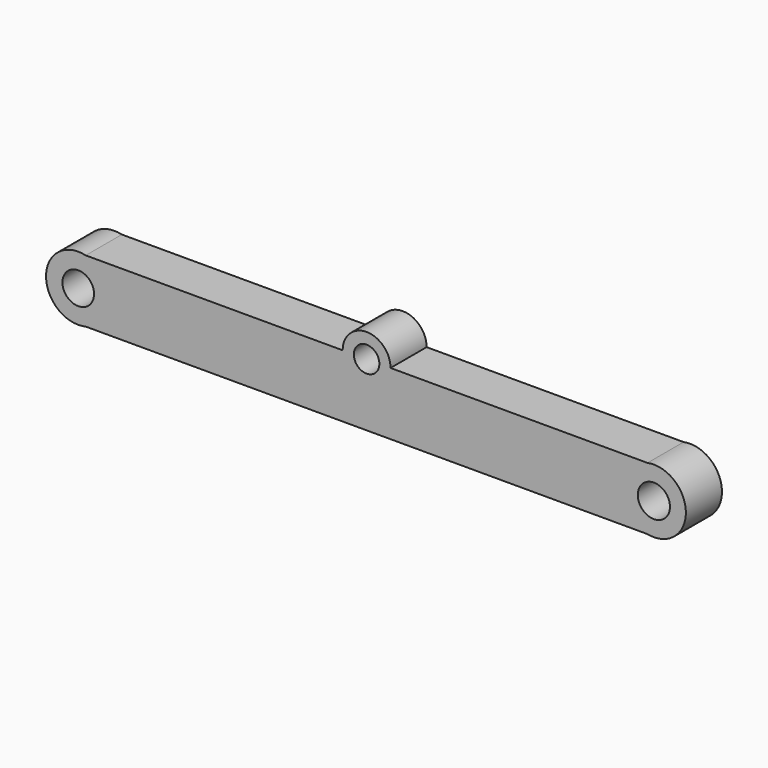
from build123d import *

# Parameters (mm, degrees)
F1_DEPTH = 0.5715
F2_R     = 0.400182
F2_R_2   = 0.323313
F2_R_3   = 0.40778
F3_DEPTH = 25.4


with BuildPart() as f1:
    # F0 (on Front) → F1 (new body, symmetric)
    with BuildSketch(Plane.XZ):
        Polygon((-7.112, 0.79375), (-7.112, -0.79375), (7.112, -0.79375), (7.112, 0.79375), (0.60626, 0.79375), (-0.60626, 0.79375), align=None)
        with BuildLine():
            ThreePointArc((-7.112, 0.79375), (-8.11707, 0), (-7.112, -0.79375))
            Line((-7.112, -0.79375), (-7.112, 0.79375))
        make_face()
        with BuildLine():
            Line((7.112, 0.79375), (7.112, -0.79375))
            ThreePointArc((7.112, -0.79375), (8.084401, 0), (7.112, 0.79375))
        make_face()
        with BuildLine():
            ThreePointArc((0.60626, 0.79375), (0, 1.40001), (-0.60626, 0.79375))
            Line((-0.60626, 0.79375), (0.60626, 0.79375))
        make_face()
    extrude(amount=F1_DEPTH, both=True)

    # F2 (on face) → F3 (cut)
    with BuildSketch(Plane.XZ.offset(0.5715)):
        with Locations((-7.301104, 0)):
            Circle(F2_R)
        with Locations((0, 0.79375)):
            Circle(F2_R_2)
        with Locations((7.27424, 0)):
            Circle(F2_R_3)
    extrude(amount=-F3_DEPTH, mode=Mode.SUBTRACT)


solid = f1.part
